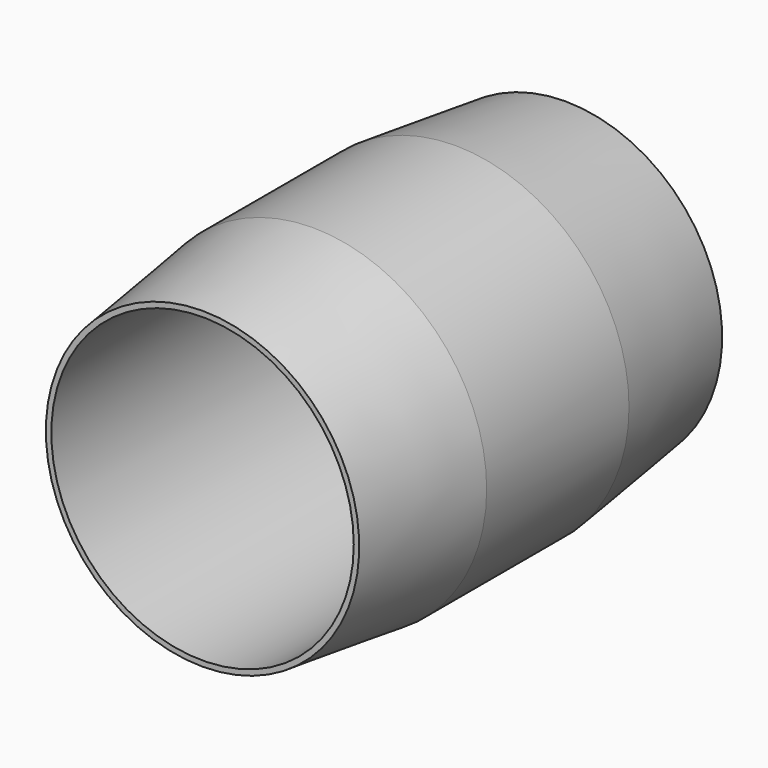
from build123d import *

# Parameters (mm, degrees)
F0_R     = 29.21
F0_R_2   = 25.4
F1_DEPTH = 76.2


with BuildPart() as f1:
    # F0 (on Front) → F1 (new body)
    with BuildSketch(Plane.XZ):
        Circle(F0_R)
        Circle(F0_R_2, mode=Mode.SUBTRACT)
    extrude(amount=F1_DEPTH)

    # F2 (on Right) → F3 (revolve, cut)
    with BuildSketch(Plane.YZ):
        Polygon((0, 26.313765), (0, 29.488258), (-25.4, 29.488258), align=None)
        Polygon((-50.832225, 29.488258), (-76.232225, 29.488258), (-76.232225, 26.313765), align=None)
    revolve(axis=Axis((0, -38.552362, 0), (0, -1, 0)), mode=Mode.SUBTRACT)


solid = f1.part
